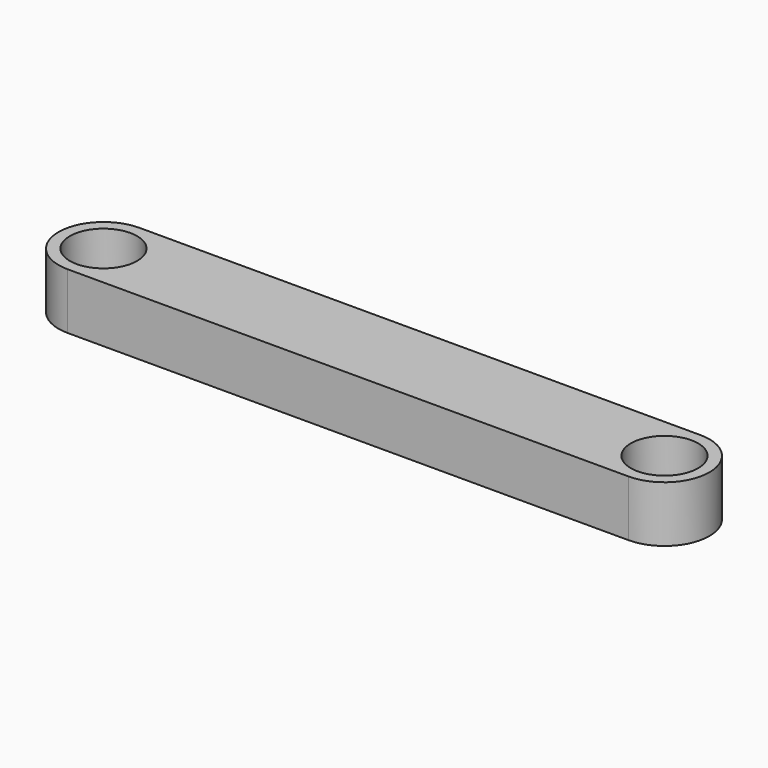
from build123d import *

# Parameters (mm, degrees)
F1_DEPTH = 5
F2_R     = 3
F3_DEPTH = 5
F4_R     = 3
F5_DEPTH = 5


with BuildPart() as f1:
    # F0 (on Top) → F1 (new body)
    with BuildSketch(Plane.XY):
        with BuildLine():
            ThreePointArc((0, 4), (-4, 0), (0, -4))
            Line((0, -4), (50, -4))
            ThreePointArc((50, -4), (54, 0), (50, 4))
            Line((50, 4), (0, 4))
        make_face()
    extrude(amount=F1_DEPTH)

    # F2 (on face) → F3 (cut, through all)
    with BuildSketch(Plane.XY.offset(5)):
        Circle(F2_R)
    extrude(amount=-F3_DEPTH, mode=Mode.SUBTRACT)

    # F4 (on face) → F5 (cut, through all)
    with BuildSketch(Plane.XY.offset(5)):
        with Locations((50, 0)):
            Circle(F4_R)
    extrude(amount=-F5_DEPTH, mode=Mode.SUBTRACT)


solid = f1.part
